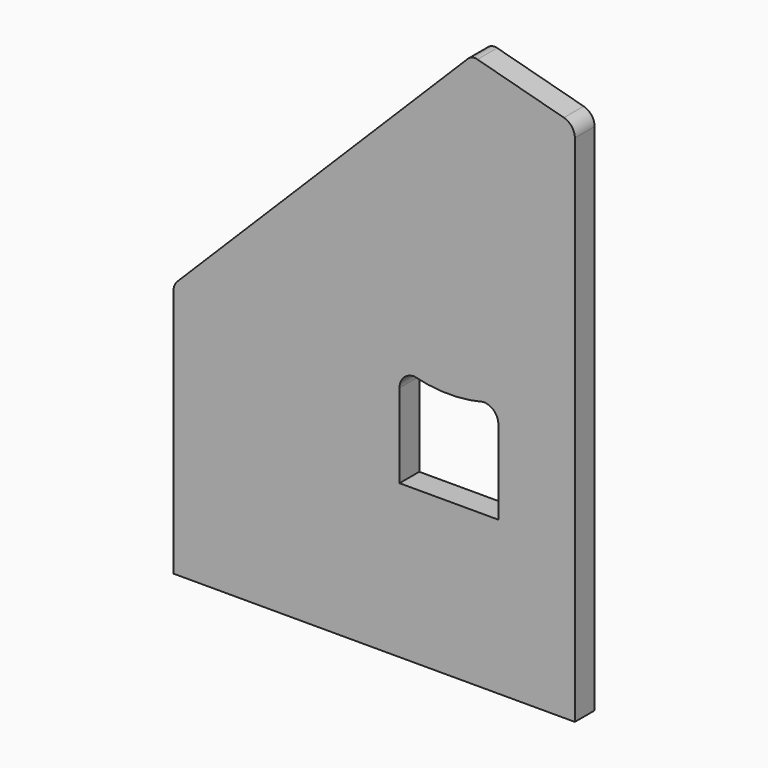
from build123d import *

# Parameters (mm, degrees)
F1_DEPTH = 25


with BuildPart() as f1:
    # F0 (on Front) → F1 (new body)
    with BuildSketch(Plane.XZ):
        with BuildLine():
            Line((-278.85852, -155), (127.437282, -155))
            Line((127.437282, -155), (127.437282, 365.282834))
            ThreePointArc((127.437282, 365.282834), (124.337582, 374.414255), (116.319568, 379.771721))
            Line((116.319568, 379.771721), (28.828843, 403.21479))
            ThreePointArc((28.828843, 403.21479), (23.652462, 403.21479), (19.169585, 400.6266))
            Line((19.169585, 400.6266), (-274.465121, 106.991893))
            ThreePointArc((-274.465121, 106.991893), (-277.716713, 102.125543), (-278.85852, 96.385292))
            Line((-278.85852, 96.385292), (-278.85852, -155))
        make_face()
        with BuildLine():
            Line((50, 85), (50, 30))
            Line((50, 30), (50, 0))
            Line((50, 0), (-50, 0))
            Line((-50, 0), (-50, 30))
            Line((-50, 30), (-50, 85))
            ThreePointArc((-50, 85), (-45.606602, 95.606602), (-35, 100))
            ThreePointArc((-35, 100), (0, 95.554417), (35, 100))
            ThreePointArc((35, 100), (45.606602, 95.606602), (50, 85))
        make_face(mode=Mode.SUBTRACT)
    extrude(amount=F1_DEPTH)


solid = f1.part
